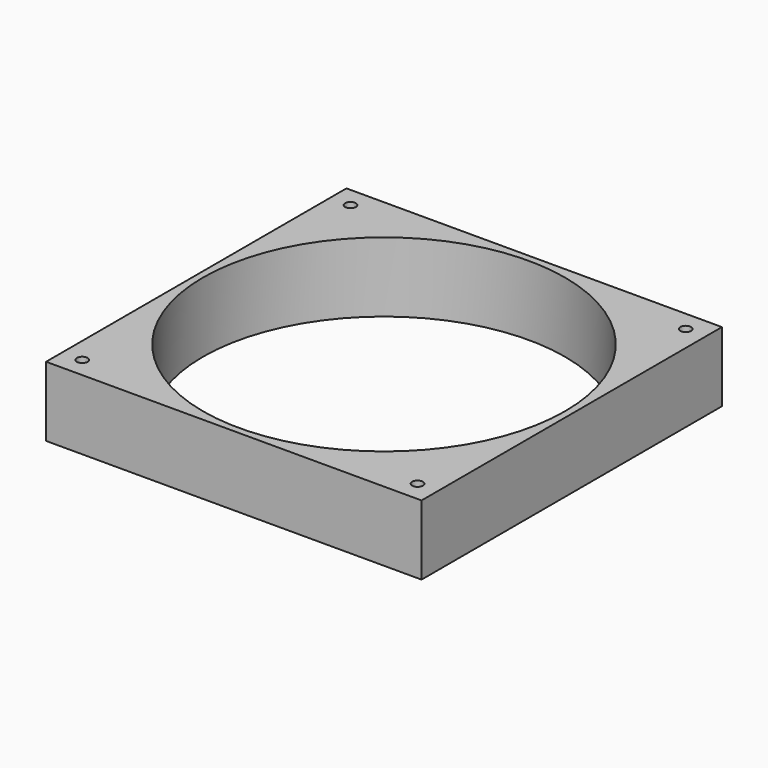
from build123d import *

# Parameters (mm, degrees)
SKETCH_1_W   = 140
SKETCH_1_H   = 140
SKETCH_1_R   = 67.5
SKETCH_1_R_2 = 2
PAD_DEPTH    = 26


with BuildPart() as part:
    # Sketch_1 → Pad (new body)
    with BuildSketch(Plane.XY):
        with Locations((70, 70)):
            Rectangle(SKETCH_1_W, SKETCH_1_H)
        with Locations((70, 70)):
            Circle(SKETCH_1_R, mode=Mode.SUBTRACT)
        with Locations((7.5, 132.5)):
            Circle(SKETCH_1_R_2, mode=Mode.SUBTRACT)
        with Locations((132.5, 132.5)):
            Circle(SKETCH_1_R_2, mode=Mode.SUBTRACT)
        with Locations((7.5, 7.5)):
            Circle(SKETCH_1_R_2, mode=Mode.SUBTRACT)
        with Locations((132.5, 7.5)):
            Circle(SKETCH_1_R_2, mode=Mode.SUBTRACT)
    extrude(amount=PAD_DEPTH)


solid = part.part
